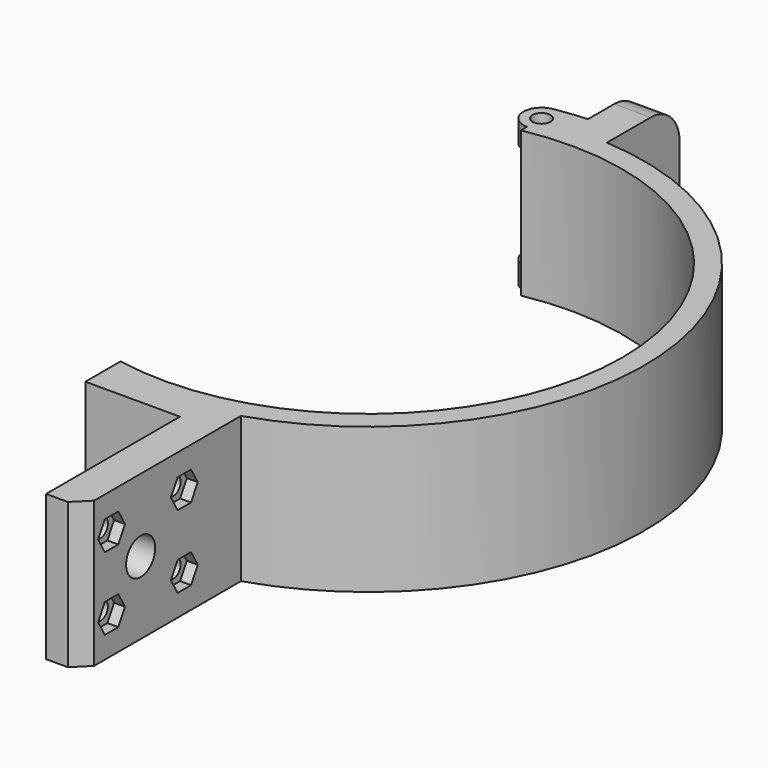
from build123d import *

# Parameters (mm, degrees)
F1_DEPTH       = 40
F2_START       = 34
F2_DEPTH       = 6
F3_DEPTH       = 6
F5_D           = 5
F5_DEPTH       = 8
F5_CSINK_D     = 6
F5_CSINK_ANGLE = 90
F5_TIP         = 1.5021515476
F7_D           = 10
F8_D           = 5
F9_SIZE        = 4
F11_D          = 10
F12_R          = 10
F13_D          = 5
F15_D          = 5
F15_DEPTH      = 12
F15_TIP        = 1.5021515476
F16_START      = -7
F14_R          = 5.5
F16_DEPTH      = 5
F17_DEPTH      = 3


with BuildPart() as f1:
    # F0 (on Top) → F1 (new body)
    with BuildSketch(Plane.XY):
        with BuildLine():
            Line((-8.2927711273, 81.5647094006), (-7.3107365454, 75.6475586596))
            ThreePointArc((-7.3107365454, 75.6475586596), (-6.1560843706, 75.7502648525), (-5, 75.8353479586))
            Line((-5, 75.8353479586), (-5, 81.8325844183))
            ThreePointArc((-5, 81.8325844183), (-6.6477349765, 81.7152341505), (-8.2927711273, 81.5647094006))
        make_face()
        with BuildLine():
            Line((-5, 81.8325844183), (-5, 75.8353479586))
            ThreePointArc((-5, 75.8353479586), (0, 76), (5, 75.8353479586))
            Line((5, 75.8353479586), (5, 100.8353479586))
            Line((5, 100.8353479586), (-5, 100.8353479586))
            Line((-5, 100.8353479586), (-5, 81.8325844183))
        make_face()
        with BuildLine():
            ThreePointArc((-13, 68.7822651561), (44.6654228683, 53.8980519128), (70, 0))
            ThreePointArc((70, 0), (44.6654228683, -53.8980519128), (-13, -68.7822651561))
            Line((-13, -68.7822651561), (-13, -74.8799038461))
            ThreePointArc((-13, -74.8799038461), (0, -76), (13, -74.8799038461))
            ThreePointArc((13, -74.8799038461), (18.0414231151, -73.8275494107), (23, -72.4361788059))
            ThreePointArc((23, -72.4361788059), (61.3351449008, -44.8776113446), (76, 0))
            ThreePointArc((76, 0), (55.4797260267, 51.9422756529), (5, 75.8353479586))
            ThreePointArc((5, 75.8353479586), (0, 76), (-5, 75.8353479586))
            ThreePointArc((-5, 75.8353479586), (-6.1560843706, 75.7502648525), (-7.3107365454, 75.6475586596))
            ThreePointArc((-7.3107365454, 75.6475586596), (-9.056731807, 71.7723085764), (-13, 70.1858979679))
            Line((-13, 70.1858979679), (-13, 68.7822651561))
        make_face()
        with BuildLine():
            ThreePointArc((13, -74.8799038461), (0, -76), (-13, -74.8799038461))
            Line((-13, -74.8799038461), (-13, -80.8799038461))
            Line((-13, -80.8799038461), (13, -80.8799038461))
            Line((13, -80.8799038461), (13, -74.8799038461))
        make_face()
        with BuildLine():
            ThreePointArc((23, -72.4361788059), (18.0414231151, -73.8275494107), (13, -74.8799038461))
            Line((13, -74.8799038461), (13, -80.8799038461))
            Line((13, -80.8799038461), (13, -126.8799038461))
            Line((13, -126.8799038461), (23, -126.8799038461))
            Line((23, -126.8799038461), (23, -72.4361788059))
        make_face()
    extrude(amount=F1_DEPTH)

    # F0 (on Top) → F2 (join)
    with BuildSketch(Plane.XY.offset(F2_START)):
        with BuildLine():
            ThreePointArc((-8.009195615, 75.576800578), (-7.6600477823, 75.6129861067), (-7.3107365454, 75.6475586596))
            Line((-7.3107365454, 75.6475586596), (-8.2927711273, 81.5647094006))
            ThreePointArc((-8.2927711273, 81.5647094006), (-11.0489742273, 81.2372577153), (-13.7925136268, 80.8166965449))
            ThreePointArc((-13.7925136268, 80.8166965449), (-9.7567430054, 79.6853320831), (-8, 75.8799038461))
            ThreePointArc((-8, 75.8799038461), (-8.0022994325, 75.7282824834), (-8.009195615, 75.576800578))
        make_face()
        with BuildLine():
            Line((-13, 74.8799038461), (-13, 70.8799038461))
            ThreePointArc((-13, 70.8799038461), (-9.5733045321, 72.2387833907), (-8.009195615, 75.576800578))
            ThreePointArc((-8.009195615, 75.576800578), (-10.5103754149, 75.2697283683), (-13, 74.8799038461))
        make_face()
        with BuildLine():
            ThreePointArc((-17.6052855561, 73.9327662169), (-15.7626356848, 71.7124293023), (-13, 70.8799038461))
            Line((-13, 70.8799038461), (-13, 74.8799038461))
            ThreePointArc((-13, 74.8799038461), (-15.3099687594, 74.441956292), (-17.6052855561, 73.9327662169))
        make_face()
        with BuildLine():
            ThreePointArc((-13.8960239837, 80.7989628029), (-17.3991209977, 78.2564001006), (-17.6052855561, 73.9327662169))
            ThreePointArc((-17.6052855561, 73.9327662169), (-15.3099687594, 74.441956292), (-13, 74.8799038461))
            ThreePointArc((-13, 74.8799038461), (-10.5103754149, 75.2697283683), (-8.009195615, 75.576800578))
            ThreePointArc((-8.009195615, 75.576800578), (-8.0022994325, 75.7282824834), (-8, 75.8799038461))
            ThreePointArc((-8, 75.8799038461), (-9.7567430054, 79.6853320831), (-13.7925136268, 80.8166965449))
            ThreePointArc((-13.7925136268, 80.8166965449), (-13.8442716447, 80.8078462478), (-13.8960239837, 80.7989628029))
        make_face()
        with BuildLine():
            Line((-13, 70.8799038461), (-13, 70.1858979679))
            ThreePointArc((-13, 70.1858979679), (-9.056731807, 71.7723085764), (-7.3107365454, 75.6475586596))
            ThreePointArc((-7.3107365454, 75.6475586596), (-7.6600477823, 75.6129861067), (-8.009195615, 75.576800578))
            ThreePointArc((-8.009195615, 75.576800578), (-9.5733045321, 72.2387833907), (-13, 70.8799038461))
        make_face()
    extrude(amount=F2_DEPTH)

    # F0 (on Top) → F3 (join)
    with BuildSketch(Plane.XY):
        with BuildLine():
            ThreePointArc((-8.009195615, 75.576800578), (-7.6600477823, 75.6129861067), (-7.3107365454, 75.6475586596))
            Line((-7.3107365454, 75.6475586596), (-8.2927711273, 81.5647094006))
            ThreePointArc((-8.2927711273, 81.5647094006), (-11.0489742273, 81.2372577153), (-13.7925136268, 80.8166965449))
            ThreePointArc((-13.7925136268, 80.8166965449), (-9.7567430054, 79.6853320831), (-8, 75.8799038461))
            ThreePointArc((-8, 75.8799038461), (-8.0022994325, 75.7282824834), (-8.009195615, 75.576800578))
        make_face()
        with BuildLine():
            Line((-13, 74.8799038461), (-13, 70.8799038461))
            ThreePointArc((-13, 70.8799038461), (-9.5733045321, 72.2387833907), (-8.009195615, 75.576800578))
            ThreePointArc((-8.009195615, 75.576800578), (-10.5103754149, 75.2697283683), (-13, 74.8799038461))
        make_face()
        with BuildLine():
            ThreePointArc((-17.6052855561, 73.9327662169), (-15.7626356848, 71.7124293023), (-13, 70.8799038461))
            Line((-13, 70.8799038461), (-13, 74.8799038461))
            ThreePointArc((-13, 74.8799038461), (-15.3099687594, 74.441956292), (-17.6052855561, 73.9327662169))
        make_face()
        with BuildLine():
            ThreePointArc((-13.8960239837, 80.7989628029), (-17.3991209977, 78.2564001006), (-17.6052855561, 73.9327662169))
            ThreePointArc((-17.6052855561, 73.9327662169), (-15.3099687594, 74.441956292), (-13, 74.8799038461))
            ThreePointArc((-13, 74.8799038461), (-10.5103754149, 75.2697283683), (-8.009195615, 75.576800578))
            ThreePointArc((-8.009195615, 75.576800578), (-8.0022994325, 75.7282824834), (-8, 75.8799038461))
            ThreePointArc((-8, 75.8799038461), (-9.7567430054, 79.6853320831), (-13.7925136268, 80.8166965449))
            ThreePointArc((-13.7925136268, 80.8166965449), (-13.8442716447, 80.8078462478), (-13.8960239837, 80.7989628029))
        make_face()
        with BuildLine():
            Line((-13, 70.8799038461), (-13, 70.1858979679))
            ThreePointArc((-13, 70.1858979679), (-9.056731807, 71.7723085764), (-7.3107365454, 75.6475586596))
            ThreePointArc((-7.3107365454, 75.6475586596), (-7.6600477823, 75.6129861067), (-8.009195615, 75.576800578))
            ThreePointArc((-8.009195615, 75.576800578), (-9.5733045321, 72.2387833907), (-13, 70.8799038461))
        make_face()
    extrude(amount=F3_DEPTH)

    # F5
    with Locations(Plane(origin=(-13, 0, 0), x_dir=(0, -1, 0), z_dir=(-1, 0, 0))):
        with Locations((74.7822651561, 30), (74.7822651561, 10)):
            CounterSinkHole(F5_D / 2, F5_CSINK_D / 2, depth=F5_DEPTH, counter_sink_angle=F5_CSINK_ANGLE)
            with Locations((0, 0, -(F5_DEPTH + F5_TIP / 2))):  # 118° drill point
                Cone(0, F5_D / 2, F5_TIP, mode=Mode.SUBTRACT)

    # F7 (through all)
    with Locations(Plane.YZ.offset(23)):
        with Locations((-106.8799038461, 20)):
            Hole(F7_D / 2)

    # F8 (through all)
    with Locations(Plane.YZ.offset(23)):
        with Locations((-116.8799038461, 30), (-91.8799038461, 30), (-91.8799038461, 10), (-116.8799038461, 10)):
            Hole(F8_D / 2)

    # F9
    f9_edges = [f1.edges().sort_by_distance(p)[0] for p in [
        (23, -126.879904, 20),
    ]]
    chamfer(f9_edges, length=F9_SIZE)

    # F11 (through all)
    with Locations(Plane.YZ.offset(5)):
        with Locations((90.8353479586, 20)):
            Hole(F11_D / 2)

    # F12
    f12_edges = [f1.edges().sort_by_distance(p)[0] for p in [
        (0, 100.835348, 40),
        (0, 100.835348, 0),
    ]]
    fillet(f12_edges, radius=F12_R)

    # F13 (through all)
    with Locations(Plane(origin=(0, 0, 0), x_dir=(1, 0, 0), z_dir=(0, 0, -1))):
        with Locations((-13, -75.8799038461)):
            Hole(F13_D / 2)

    # F15
    with Locations(Plane.XZ.offset(80.8799038461)):
        with Locations((0, 20)):
            Hole(F15_D / 2, depth=F15_DEPTH)
            with Locations((0, 0, -(F15_DEPTH + F15_TIP / 2))):  # 118° drill point
                Cone(0, F15_D / 2, F15_TIP, mode=Mode.SUBTRACT)

    # F14 (on face) → F16 (cut)
    with BuildSketch(Plane.XZ.offset(80.8799038461).offset(F16_START)):
        with Locations((0, 20)):
            Circle(F14_R)
    extrude(amount=-F16_DEPTH, mode=Mode.SUBTRACT)

    # F6 (on face) → F17 (cut)
    with BuildSketch(Plane.YZ.offset(23)):
        Polygon((-114.5705027693, 34), (-119.1893049229, 34), (-121.4987059996, 30), (-119.1893049229, 26), (-114.5705027693, 26), (-112.2611016926, 30), align=None)
        Polygon((-89.5705027693, 34), (-94.1893049229, 34), (-96.4987059996, 30), (-94.1893049229, 26), (-89.5705027693, 26), (-87.2611016926, 30), align=None)
        Polygon((-87.2611016926, 10), (-89.5705027693, 14), (-94.1893049229, 14), (-96.4987059996, 10), (-94.1893049229, 6), (-89.5705027693, 6), align=None)
        Polygon((-119.1893049229, 14), (-121.4987059996, 10), (-119.1893049229, 6), (-114.5705027693, 6), (-112.2611016926, 10), (-114.5705027693, 14), align=None)
    extrude(amount=-F17_DEPTH, mode=Mode.SUBTRACT)


solid = f1.part
